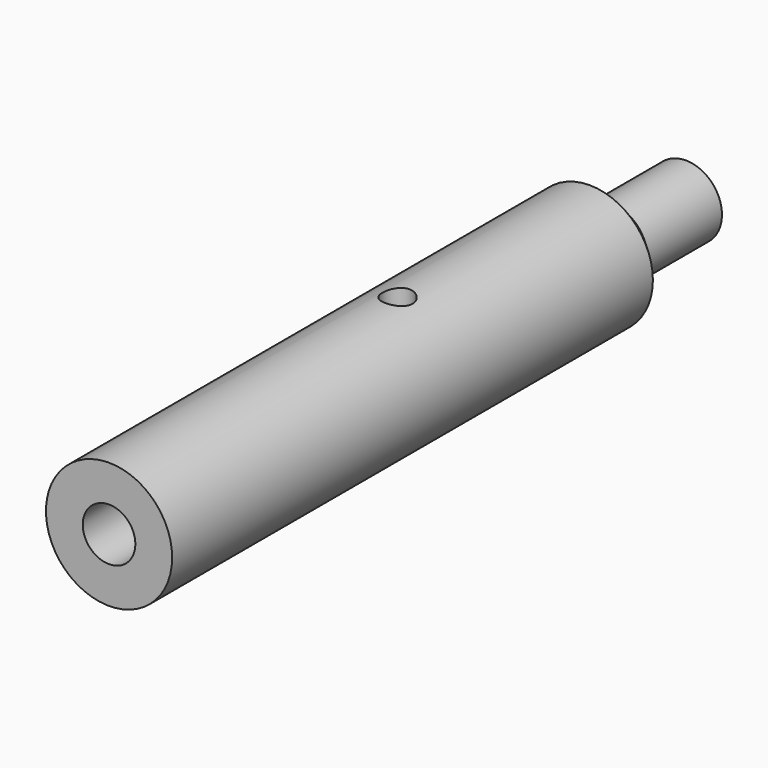
from build123d import *

# Parameters (mm, degrees)
F0_R      = 53.34
F0_R_2    = 22.225
F1_DEPTH  = 304.8
F4_R      = 53.34
F4_R_2    = 30.48
F5_DEPTH  = 101.6
F10_R     = 12.7
F10_R_2   = 8.89
F10_R_3   = 3.175
F11_DEPTH = 15.24
F12_DEPTH = 27.94
F13_DEPTH = 32.3429548439
F14_R     = 12.7
F14_R_2   = 8.89
F14_R_3   = 3.175
F15_DEPTH = 15.24
F16_DEPTH = 27.94
F17_DEPTH = 32.3429548439
F20_R     = 8.89
F21_DEPTH = 11.43
F22_SIZE  = 2.54
F23_R     = 8.89
F24_DEPTH = 11.43
F25_SIZE  = 2.54


with BuildPart() as f1:
    # F0 (on Front) → F1 (new body, symmetric)
    with BuildSketch(Plane.XZ):
        Circle(F0_R)
        Circle(F0_R_2, mode=Mode.SUBTRACT)
    extrude(amount=F1_DEPTH, both=True)

    # F4 (on offset) → F5 (cut)
    with BuildSketch(Plane(origin=(0, 304.8, 0), x_dir=(-1, 0, 0), z_dir=(0, 1, 0))):
        Circle(F4_R)
        Circle(F4_R_2, mode=Mode.SUBTRACT)
    extrude(amount=-F5_DEPTH, mode=Mode.SUBTRACT)

    # F6 (on Right) → F7 (revolve)
    with BuildSketch(Plane.YZ):
        Polygon((203.2, 53.34), (203.2, 30.48), (226.06, 30.48), align=None)
    revolve(axis=Axis((0, 101.6, 0), (0, 1, 0)))

    # F10 (on offset) → F11 (cut)
    with BuildSketch(Plane.XY.offset(53.34)):
        Circle(F10_R)
        Circle(F10_R_2, mode=Mode.SUBTRACT)
        Circle(F10_R_2)
        Circle(F10_R_3, mode=Mode.SUBTRACT)
        Circle(F10_R_3)
    extrude(amount=-F11_DEPTH, mode=Mode.SUBTRACT)

    # F10 (on offset) → F12 (cut)
    with BuildSketch(Plane.XY.offset(53.34)):
        Circle(F10_R_2)
        Circle(F10_R_3, mode=Mode.SUBTRACT)
        Circle(F10_R_3)
    extrude(amount=-F12_DEPTH, mode=Mode.SUBTRACT)

    # F10 (on offset) → F13 (cut, up to face)
    with BuildSketch(Plane.XY.offset(53.34)):
        Circle(F10_R_3)
    extrude(amount=-F13_DEPTH, mode=Mode.SUBTRACT)

    # F14 (on offset) → F15 (cut)
    with BuildSketch(Plane.XY.offset(-53.34)):
        Circle(F14_R)
        Circle(F14_R_2, mode=Mode.SUBTRACT)
        Circle(F14_R_2)
        Circle(F14_R_3, mode=Mode.SUBTRACT)
        Circle(F14_R_3)
    extrude(amount=F15_DEPTH, mode=Mode.SUBTRACT)

    # F14 (on offset) → F16 (cut)
    with BuildSketch(Plane.XY.offset(-53.34)):
        Circle(F14_R_2)
        Circle(F14_R_3, mode=Mode.SUBTRACT)
        Circle(F14_R_3)
    extrude(amount=F16_DEPTH, mode=Mode.SUBTRACT)

    # F14 (on offset) → F17 (cut, up to face)
    with BuildSketch(Plane.XY.offset(-53.34)):
        Circle(F14_R_3)
    extrude(amount=F17_DEPTH, mode=Mode.SUBTRACT)


with BuildPart() as f21:
    # F20 (on offset) → F21 (new body)
    with BuildSketch(Plane.XY.offset(38.1)):
        Circle(F20_R)
    extrude(amount=-F21_DEPTH)

    # F22
    f22_edges = [f21.edges().sort_by_distance(p)[0] for p in [
        (-8.89, 0, 38.1),
        (-8.89, 0, 26.67),
    ]]
    chamfer(f22_edges, length=F22_SIZE)


with BuildPart() as f24:
    # F23 (on offset) → F24 (new body)
    with BuildSketch(Plane.XY.offset(-38.1)):
        Circle(F23_R)
    extrude(amount=F24_DEPTH)

    # F25
    f25_edges = [f24.edges().sort_by_distance(p)[0] for p in [
        (-8.89, 0, -38.1),
        (-8.89, 0, -26.67),
    ]]
    chamfer(f25_edges, length=F25_SIZE)


solid = Compound([f1.part, f21.part, f24.part])
